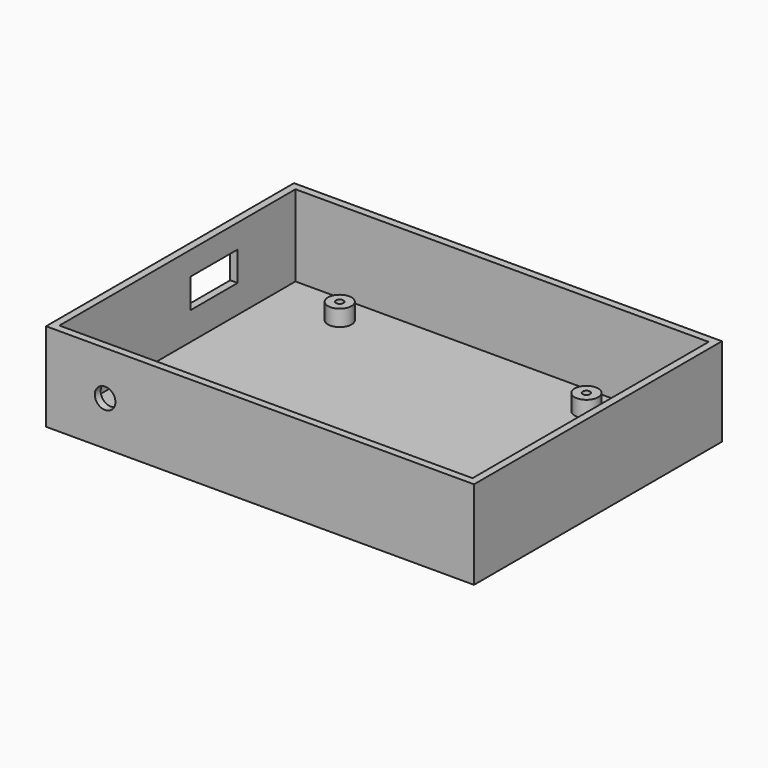
from build123d import *

# Parameters (mm, degrees)
SKETCH_W        = 145
SKETCH_H        = 105
PAD_DEPTH       = 30
SKETCH002_W     = 140
SKETCH002_H     = 100
POCKET_DEPTH    = 27.5
SKETCH003_R     = 4
SKETCH003_R_2   = 1
PAD001_DEPTH    = 5.5
SKETCH004_W     = 20
SKETCH004_H     = 10
POCKET001_DEPTH = 2.5
SKETCH005_R     = 3.5
POCKET002_DEPTH = 2.5
SKETCH006_R     = 1.25
POCKET003_DEPTH = 7.5


with BuildPart() as part:
    # Sketch → Pad (new body)
    with BuildSketch(Plane.XY):
        with Locations((72.5, 52.5)):
            Rectangle(SKETCH_W, SKETCH_H)
    extrude(amount=PAD_DEPTH)

    # Sketch002 (on Face6 of Pad) → Pocket (cut)
    with BuildSketch(Plane.XY.offset(30)):
        with Locations((72.5, 52.5)):
            Rectangle(SKETCH002_W, SKETCH002_H)
    extrude(amount=-POCKET_DEPTH, mode=Mode.SUBTRACT)

    # Sketch003 (on Face11 of Pocket) → Pad001 (join)
    with BuildSketch(Plane.XY.offset(2.5)):
        with Locations((25.5, 92.5)):
            Circle(SKETCH003_R)
        with Locations((25.5, 92.5)):
            Circle(SKETCH003_R_2, mode=Mode.SUBTRACT)
        with Locations((109.08, 92.5)):
            Circle(SKETCH003_R)
        with Locations((109.08, 92.5)):
            Circle(SKETCH003_R_2, mode=Mode.SUBTRACT)
        with Locations((25.5, 18.7)):
            Circle(SKETCH003_R)
        with Locations((25.5, 18.7)):
            Circle(SKETCH003_R_2, mode=Mode.SUBTRACT)
        with Locations((130.7, 8.5)):
            Circle(SKETCH003_R)
        with Locations((130.7, 8.5)):
            Circle(SKETCH003_R_2, mode=Mode.SUBTRACT)
    extrude(amount=PAD001_DEPTH)

    # Sketch004 (on Face2 of Pad001) → Pocket001 (cut)
    with BuildSketch(Plane(origin=(0, 0, 0), x_dir=(0, -1, 0), z_dir=(-1, 0, 0))):
        with Locations((-68, 17)):
            Rectangle(SKETCH004_W, SKETCH004_H)
    extrude(amount=-POCKET001_DEPTH, mode=Mode.SUBTRACT)

    # Sketch005 (on Face1 of Pocket001) → Pocket002 (cut)
    with BuildSketch(Plane.XZ):
        with Locations((20, 15)):
            Circle(SKETCH005_R)
    extrude(amount=-POCKET002_DEPTH, mode=Mode.SUBTRACT)

    # Sketch006 (on Face21 of Pocket002) → Pocket003 (cut)
    with BuildSketch(Plane.XY.offset(8)):
        with Locations((25.5, 92.5)):
            Circle(SKETCH006_R)
        with Locations((109.08, 92.5)):
            Circle(SKETCH006_R)
        with Locations((25.5, 18.7)):
            Circle(SKETCH006_R)
        with Locations((130.7, 8.5)):
            Circle(SKETCH006_R)
    extrude(amount=-POCKET003_DEPTH, mode=Mode.SUBTRACT)


solid = part.part
